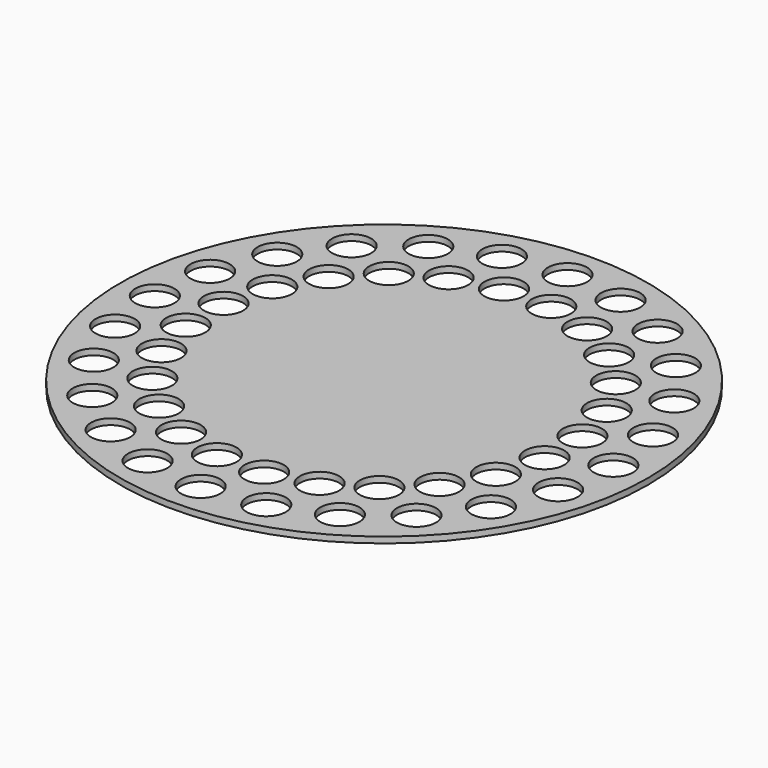
from build123d import *

# Parameters (mm, degrees)
F0_R     = 175
F0_R_2   = 13
F1_DEPTH = 4


with BuildPart() as f1:
    # F0 (on Top) → F1 (new body)
    with BuildSketch(Plane.XY):
        Circle(F0_R)
        with Locations((-107.480231, -107.480231)):
            Circle(F0_R_2, mode=Mode.SUBTRACT)
        with Locations((-76, -131.635861)):
            Circle(F0_R_2, mode=Mode.SUBTRACT)
        with Locations((-39.340495, -146.820726)):
            Circle(F0_R_2, mode=Mode.SUBTRACT)
        with Locations((-45.922012, -110.865544)):
            Circle(F0_R_2, mode=Mode.SUBTRACT)
        with Locations((-73.051371, -95.202401)):
            Circle(F0_R_2, mode=Mode.SUBTRACT)
        with Locations((-15.663143, -118.973383)):
            Circle(F0_R_2, mode=Mode.SUBTRACT)
        with Locations((-131.635861, -76)):
            Circle(F0_R_2, mode=Mode.SUBTRACT)
        with Locations((-95.202401, -73.051371)):
            Circle(F0_R_2, mode=Mode.SUBTRACT)
        with Locations((-110.865544, -45.922012)):
            Circle(F0_R_2, mode=Mode.SUBTRACT)
        with Locations((-146.820726, -39.340495)):
            Circle(F0_R_2, mode=Mode.SUBTRACT)
        with Locations((-118.973383, -15.663143)):
            Circle(F0_R_2, mode=Mode.SUBTRACT)
        with Locations((0, -152)):
            Circle(F0_R_2, mode=Mode.SUBTRACT)
        with Locations((39.340495, -146.820726)):
            Circle(F0_R_2, mode=Mode.SUBTRACT)
        with Locations((76, -131.635861)):
            Circle(F0_R_2, mode=Mode.SUBTRACT)
        with Locations((15.663143, -118.973383)):
            Circle(F0_R_2, mode=Mode.SUBTRACT)
        with Locations((45.922012, -110.865544)):
            Circle(F0_R_2, mode=Mode.SUBTRACT)
        with Locations((73.051371, -95.202401)):
            Circle(F0_R_2, mode=Mode.SUBTRACT)
        with Locations((107.480231, -107.480231)):
            Circle(F0_R_2, mode=Mode.SUBTRACT)
        with Locations((95.202401, -73.051371)):
            Circle(F0_R_2, mode=Mode.SUBTRACT)
        with Locations((110.865544, -45.922012)):
            Circle(F0_R_2, mode=Mode.SUBTRACT)
        with Locations((131.635861, -76)):
            Circle(F0_R_2, mode=Mode.SUBTRACT)
        with Locations((118.973383, -15.663143)):
            Circle(F0_R_2, mode=Mode.SUBTRACT)
        with Locations((146.820726, -39.340495)):
            Circle(F0_R_2, mode=Mode.SUBTRACT)
        with Locations((-152, 0)):
            Circle(F0_R_2, mode=Mode.SUBTRACT)
        with Locations((-146.820726, 39.340495)):
            Circle(F0_R_2, mode=Mode.SUBTRACT)
        with Locations((-118.973383, 15.663143)):
            Circle(F0_R_2, mode=Mode.SUBTRACT)
        with Locations((-131.635861, 76)):
            Circle(F0_R_2, mode=Mode.SUBTRACT)
        with Locations((-110.865544, 45.922012)):
            Circle(F0_R_2, mode=Mode.SUBTRACT)
        with Locations((-95.202401, 73.051371)):
            Circle(F0_R_2, mode=Mode.SUBTRACT)
        with Locations((-107.480231, 107.480231)):
            Circle(F0_R_2, mode=Mode.SUBTRACT)
        with Locations((-73.051371, 95.202401)):
            Circle(F0_R_2, mode=Mode.SUBTRACT)
        with Locations((-45.922012, 110.865544)):
            Circle(F0_R_2, mode=Mode.SUBTRACT)
        with Locations((-15.663143, 118.973383)):
            Circle(F0_R_2, mode=Mode.SUBTRACT)
        with Locations((-76, 131.635861)):
            Circle(F0_R_2, mode=Mode.SUBTRACT)
        with Locations((-39.340495, 146.820726)):
            Circle(F0_R_2, mode=Mode.SUBTRACT)
        with Locations((118.973383, 15.663143)):
            Circle(F0_R_2, mode=Mode.SUBTRACT)
        with Locations((152, 0)):
            Circle(F0_R_2, mode=Mode.SUBTRACT)
        with Locations((146.820726, 39.340495)):
            Circle(F0_R_2, mode=Mode.SUBTRACT)
        with Locations((110.865544, 45.922012)):
            Circle(F0_R_2, mode=Mode.SUBTRACT)
        with Locations((95.202401, 73.051371)):
            Circle(F0_R_2, mode=Mode.SUBTRACT)
        with Locations((131.635861, 76)):
            Circle(F0_R_2, mode=Mode.SUBTRACT)
        with Locations((15.663143, 118.973383)):
            Circle(F0_R_2, mode=Mode.SUBTRACT)
        with Locations((73.051371, 95.202401)):
            Circle(F0_R_2, mode=Mode.SUBTRACT)
        with Locations((45.922012, 110.865544)):
            Circle(F0_R_2, mode=Mode.SUBTRACT)
        with Locations((0, 152)):
            Circle(F0_R_2, mode=Mode.SUBTRACT)
        with Locations((39.340495, 146.820726)):
            Circle(F0_R_2, mode=Mode.SUBTRACT)
        with Locations((76, 131.635861)):
            Circle(F0_R_2, mode=Mode.SUBTRACT)
        with Locations((107.480231, 107.480231)):
            Circle(F0_R_2, mode=Mode.SUBTRACT)
    extrude(amount=F1_DEPTH)


solid = f1.part
